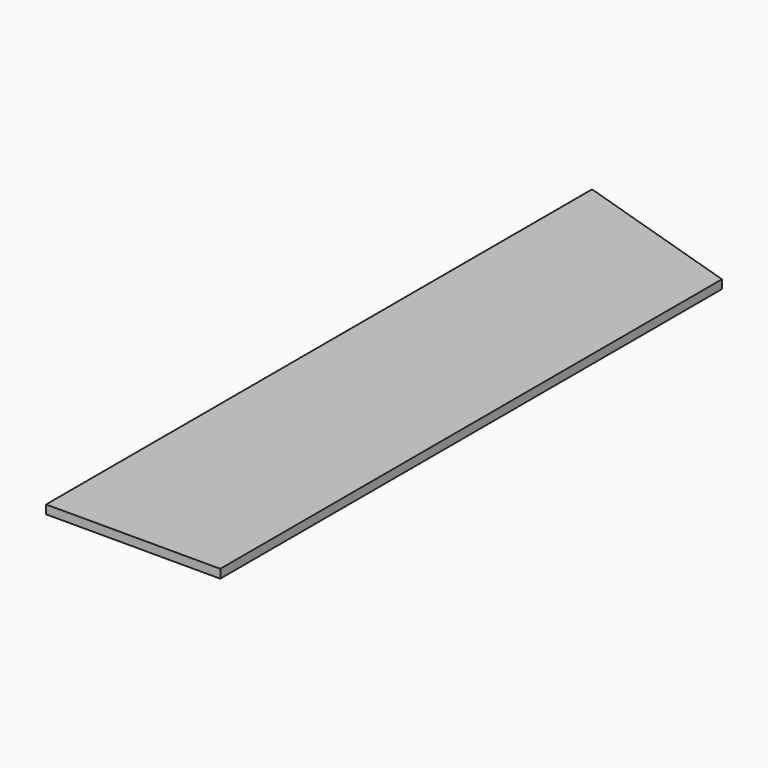
from build123d import *

# Parameters (mm, degrees)
F0_W     = 63.5
F0_H     = 228.6
F1_DEPTH = 3.175


with BuildPart() as f1:
    # F0 (on Top) → F1 (new body)
    with BuildSketch(Plane.XY):
        Rectangle(F0_W, F0_H)
        Polygon((-31.75, 114.3), (31.75, 114.3), (-31.75, 134.504394), align=None)
    extrude(amount=F1_DEPTH)


solid = f1.part
